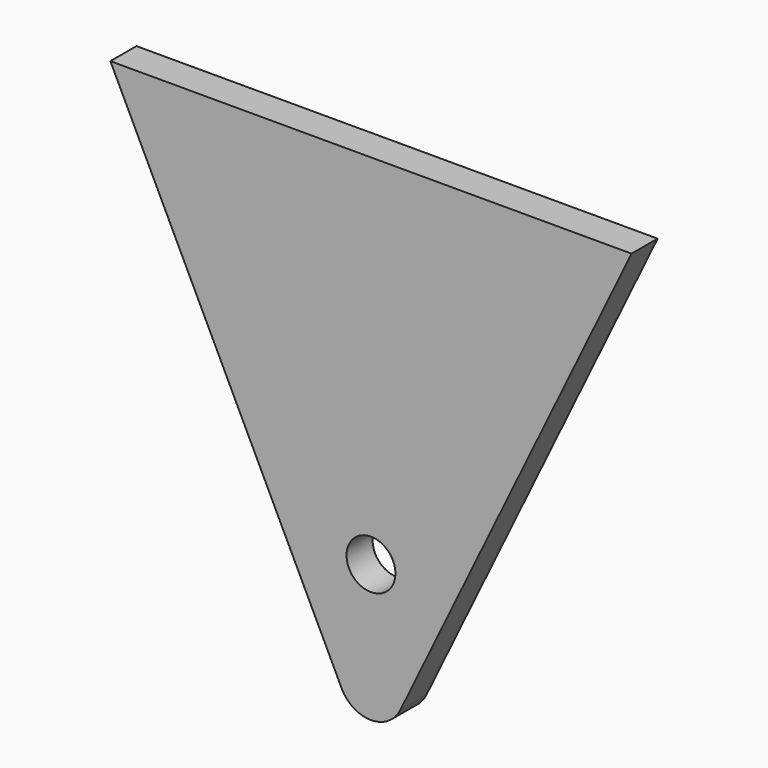
from build123d import *

# Parameters (mm, degrees)
F0_R     = 4.7625
F1_DEPTH = 6.35


with BuildPart() as f1:
    # F0 (on Front) → F1 (new body)
    with BuildSketch(Plane.XZ):
        with BuildLine():
            Line((50.8, 69.85), (-50.8, 69.85))
            Line((-50.8, 69.85), (-5.71382, -23.140247))
            ThreePointArc((-5.71382, -23.140247), (0, -26.71991), (5.71382, -23.140247))
            Line((5.71382, -23.140247), (50.8, 69.85))
        make_face()
        Circle(F0_R, mode=Mode.SUBTRACT)
    extrude(amount=F1_DEPTH)


solid = f1.part
